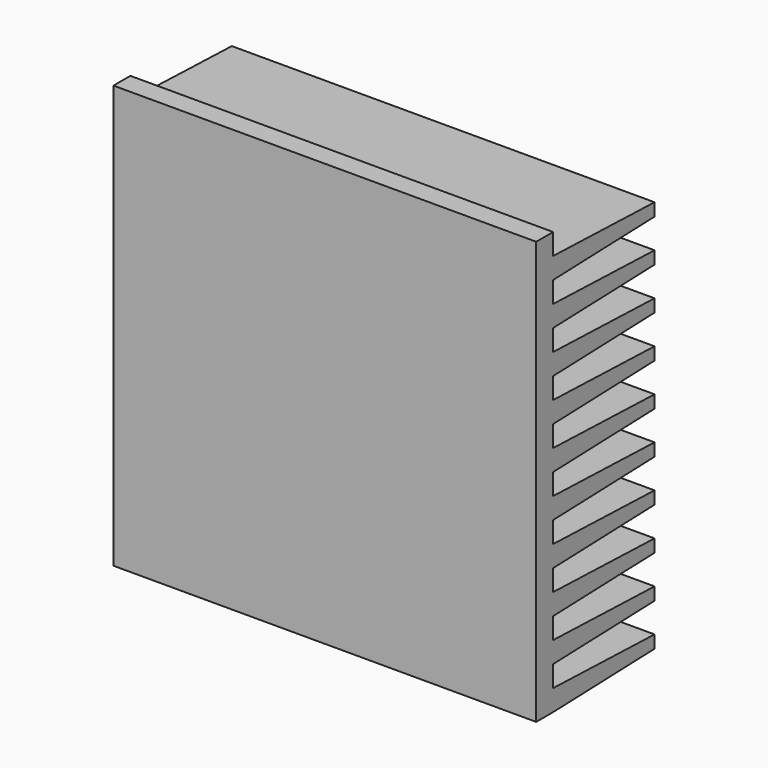
from build123d import *

# Parameters (mm, degrees)
F1_DEPTH = 100
F2_ANGLE = 90


with BuildPart() as f1:
    # F0 (on Front) → F1 (new body)
    with BuildSketch(Plane.XZ):
        Polygon((0, 0), (5, 0), (35, 1), (35, 4), (5, 5), (5, 10), (35, 11), (35, 14), (5, 15), (5, 20), (35, 21), (35, 24), (5, 25), (5, 30), (35, 31), (35, 34), (5, 35), (5, 40), (35, 41), (35, 44), (5, 45), (5, 50), (35, 51), (35, 54), (5, 55), (5, 60), (35, 61), (35, 64), (5, 65), (5, 70), (35, 71), (35, 74), (5, 75), (5, 80), (35, 81), (35, 84), (5, 85), (5, 90), (35, 91), (35, 94), (5, 95), (5, 100), (0, 100), align=None)
    extrude(amount=F1_DEPTH)


with BuildPart() as f1_1:
    # F2: moved
    add(f1.part.rotate(Axis((0, 0, 50), (0, 0, 1)), F2_ANGLE))


solid = f1_1.part
